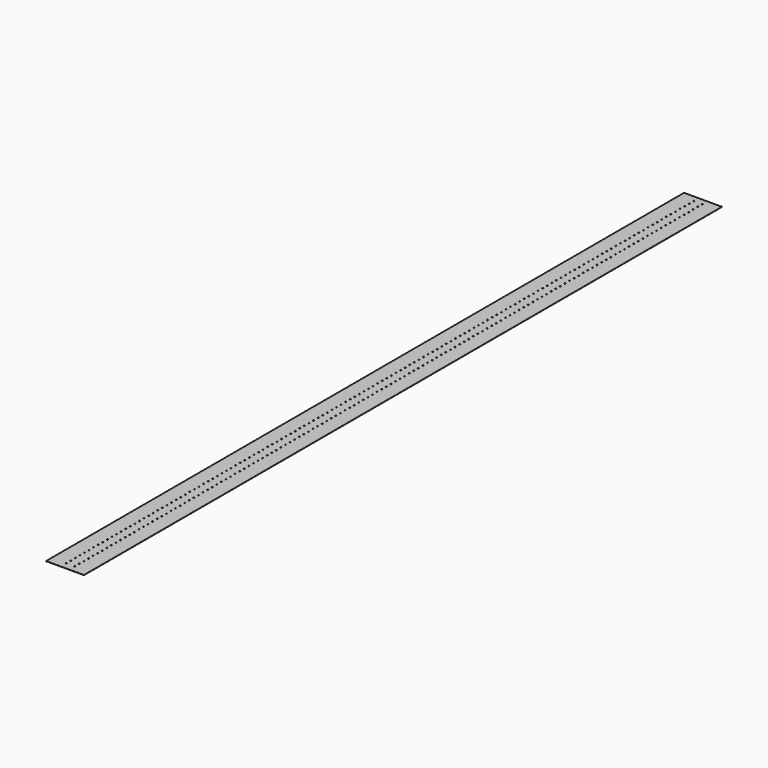
from build123d import *

# Parameters (mm, degrees)
F0_W     = 168
F0_H     = 3536.95
F0_R     = 2.38125
F1_DEPTH = 0.8


with BuildPart() as f1:
    # F0 (on Top) → F1 (new body)
    with BuildSketch(Plane.XY):
        Rectangle(F0_W, F0_H)
        with Locations((-19.0522, -1738.3125)):
            Circle(F0_R, mode=Mode.SUBTRACT)
        with Locations((-19.0522, -1712.9125)):
            Circle(F0_R, mode=Mode.SUBTRACT)
        with Locations((-19.0522, -1687.5125)):
            Circle(F0_R, mode=Mode.SUBTRACT)
        with Locations((-19.0522, -1662.1125)):
            Circle(F0_R, mode=Mode.SUBTRACT)
        with Locations((-19.0522, -1636.7125)):
            Circle(F0_R, mode=Mode.SUBTRACT)
        with Locations((-19.0522, -1611.3125)):
            Circle(F0_R, mode=Mode.SUBTRACT)
        with Locations((-19.0522, -1585.9125)):
            Circle(F0_R, mode=Mode.SUBTRACT)
        with Locations((-19.0522, -1560.5125)):
            Circle(F0_R, mode=Mode.SUBTRACT)
        with Locations((-19.0522, -1535.1125)):
            Circle(F0_R, mode=Mode.SUBTRACT)
        with Locations((-19.0522, -1509.7125)):
            Circle(F0_R, mode=Mode.SUBTRACT)
        with Locations((-19.0522, -1484.3125)):
            Circle(F0_R, mode=Mode.SUBTRACT)
        with Locations((-19.0522, -1458.9125)):
            Circle(F0_R, mode=Mode.SUBTRACT)
        with Locations((-19.0522, -1433.5125)):
            Circle(F0_R, mode=Mode.SUBTRACT)
        with Locations((-19.0522, -1408.1125)):
            Circle(F0_R, mode=Mode.SUBTRACT)
        with Locations((-19.0522, -1382.7125)):
            Circle(F0_R, mode=Mode.SUBTRACT)
        with Locations((-19.0522, -1357.3125)):
            Circle(F0_R, mode=Mode.SUBTRACT)
        with Locations((-19.0522, -1331.9125)):
            Circle(F0_R, mode=Mode.SUBTRACT)
        with Locations((-19.0522, -1306.5125)):
            Circle(F0_R, mode=Mode.SUBTRACT)
        with Locations((-19.0522, -1281.1125)):
            Circle(F0_R, mode=Mode.SUBTRACT)
        with Locations((-19.0522, -1255.7125)):
            Circle(F0_R, mode=Mode.SUBTRACT)
        with Locations((-19.0522, -1230.3125)):
            Circle(F0_R, mode=Mode.SUBTRACT)
        with Locations((-19.0522, -1204.9125)):
            Circle(F0_R, mode=Mode.SUBTRACT)
        with Locations((-19.0522, -1179.5125)):
            Circle(F0_R, mode=Mode.SUBTRACT)
        with Locations((-19.0522, -1154.1125)):
            Circle(F0_R, mode=Mode.SUBTRACT)
        with Locations((-19.0522, -1128.7125)):
            Circle(F0_R, mode=Mode.SUBTRACT)
        with Locations((-19.0522, -1103.3125)):
            Circle(F0_R, mode=Mode.SUBTRACT)
        with Locations((-19.0522, -1077.9125)):
            Circle(F0_R, mode=Mode.SUBTRACT)
        with Locations((-19.0522, -1052.5125)):
            Circle(F0_R, mode=Mode.SUBTRACT)
        with Locations((-19.0522, -1027.1125)):
            Circle(F0_R, mode=Mode.SUBTRACT)
        with Locations((-19.0522, -1001.7125)):
            Circle(F0_R, mode=Mode.SUBTRACT)
        with Locations((-19.0522, -976.3125)):
            Circle(F0_R, mode=Mode.SUBTRACT)
        with Locations((-19.0522, -950.9125)):
            Circle(F0_R, mode=Mode.SUBTRACT)
        with Locations((-19.0522, -925.5125)):
            Circle(F0_R, mode=Mode.SUBTRACT)
        with Locations((-19.0522, -900.1125)):
            Circle(F0_R, mode=Mode.SUBTRACT)
        with Locations((-19.0522, -874.7125)):
            Circle(F0_R, mode=Mode.SUBTRACT)
        with Locations((-19.0522, -849.3125)):
            Circle(F0_R, mode=Mode.SUBTRACT)
        with Locations((-19.0522, -823.9125)):
            Circle(F0_R, mode=Mode.SUBTRACT)
        with Locations((-19.0522, -798.5125)):
            Circle(F0_R, mode=Mode.SUBTRACT)
        with Locations((-19.0522, -773.1125)):
            Circle(F0_R, mode=Mode.SUBTRACT)
        with Locations((-19.0522, -747.7125)):
            Circle(F0_R, mode=Mode.SUBTRACT)
        with Locations((-19.0522, -722.3125)):
            Circle(F0_R, mode=Mode.SUBTRACT)
        with Locations((-19.0522, -696.9125)):
            Circle(F0_R, mode=Mode.SUBTRACT)
        with Locations((-19.0522, -671.5125)):
            Circle(F0_R, mode=Mode.SUBTRACT)
        with Locations((-19.0522, -646.1125)):
            Circle(F0_R, mode=Mode.SUBTRACT)
        with Locations((-19.0522, -620.7125)):
            Circle(F0_R, mode=Mode.SUBTRACT)
        with Locations((-19.0522, -595.3125)):
            Circle(F0_R, mode=Mode.SUBTRACT)
        with Locations((-19.0522, -569.9125)):
            Circle(F0_R, mode=Mode.SUBTRACT)
        with Locations((-19.0522, -544.5125)):
            Circle(F0_R, mode=Mode.SUBTRACT)
        with Locations((-19.0522, -519.1125)):
            Circle(F0_R, mode=Mode.SUBTRACT)
        with Locations((-19.0522, -493.7125)):
            Circle(F0_R, mode=Mode.SUBTRACT)
        with Locations((-19.0522, -468.3125)):
            Circle(F0_R, mode=Mode.SUBTRACT)
        with Locations((-19.0522, -442.9125)):
            Circle(F0_R, mode=Mode.SUBTRACT)
        with Locations((-19.0522, -417.5125)):
            Circle(F0_R, mode=Mode.SUBTRACT)
        with Locations((-19.0522, -392.1125)):
            Circle(F0_R, mode=Mode.SUBTRACT)
        with Locations((-19.0522, -366.7125)):
            Circle(F0_R, mode=Mode.SUBTRACT)
        with Locations((-19.0522, -341.3125)):
            Circle(F0_R, mode=Mode.SUBTRACT)
        with Locations((-19.0522, -315.9125)):
            Circle(F0_R, mode=Mode.SUBTRACT)
        with Locations((-19.0522, -290.5125)):
            Circle(F0_R, mode=Mode.SUBTRACT)
        with Locations((-19.0522, -265.1125)):
            Circle(F0_R, mode=Mode.SUBTRACT)
        with Locations((-19.0522, -239.7125)):
            Circle(F0_R, mode=Mode.SUBTRACT)
        with Locations((-19.0522, -214.3125)):
            Circle(F0_R, mode=Mode.SUBTRACT)
        with Locations((-19.0522, -188.9125)):
            Circle(F0_R, mode=Mode.SUBTRACT)
        with Locations((-19.0522, -163.5125)):
            Circle(F0_R, mode=Mode.SUBTRACT)
        with Locations((-19.0522, -138.1125)):
            Circle(F0_R, mode=Mode.SUBTRACT)
        with Locations((-19.0522, -112.7125)):
            Circle(F0_R, mode=Mode.SUBTRACT)
        with Locations((-19.0522, -87.3125)):
            Circle(F0_R, mode=Mode.SUBTRACT)
        with Locations((-19.0522, -61.9125)):
            Circle(F0_R, mode=Mode.SUBTRACT)
        with Locations((-19.0522, -36.5125)):
            Circle(F0_R, mode=Mode.SUBTRACT)
        with Locations((-19.0522, -11.1125)):
            Circle(F0_R, mode=Mode.SUBTRACT)
        with Locations((19.0478, -1738.3125)):
            Circle(F0_R, mode=Mode.SUBTRACT)
        with Locations((19.0478, -1712.9125)):
            Circle(F0_R, mode=Mode.SUBTRACT)
        with Locations((19.0478, -1687.5125)):
            Circle(F0_R, mode=Mode.SUBTRACT)
        with Locations((19.0478, -1662.1125)):
            Circle(F0_R, mode=Mode.SUBTRACT)
        with Locations((19.0478, -1636.7125)):
            Circle(F0_R, mode=Mode.SUBTRACT)
        with Locations((19.0478, -1611.3125)):
            Circle(F0_R, mode=Mode.SUBTRACT)
        with Locations((19.0478, -1585.9125)):
            Circle(F0_R, mode=Mode.SUBTRACT)
        with Locations((19.0478, -1560.5125)):
            Circle(F0_R, mode=Mode.SUBTRACT)
        with Locations((19.0478, -1535.1125)):
            Circle(F0_R, mode=Mode.SUBTRACT)
        with Locations((19.0478, -1509.7125)):
            Circle(F0_R, mode=Mode.SUBTRACT)
        with Locations((19.0478, -1484.3125)):
            Circle(F0_R, mode=Mode.SUBTRACT)
        with Locations((19.0478, -1458.9125)):
            Circle(F0_R, mode=Mode.SUBTRACT)
        with Locations((19.0478, -1433.5125)):
            Circle(F0_R, mode=Mode.SUBTRACT)
        with Locations((19.0478, -1408.1125)):
            Circle(F0_R, mode=Mode.SUBTRACT)
        with Locations((19.0478, -1382.7125)):
            Circle(F0_R, mode=Mode.SUBTRACT)
        with Locations((19.0478, -1357.3125)):
            Circle(F0_R, mode=Mode.SUBTRACT)
        with Locations((19.0478, -1331.9125)):
            Circle(F0_R, mode=Mode.SUBTRACT)
        with Locations((19.0478, -1306.5125)):
            Circle(F0_R, mode=Mode.SUBTRACT)
        with Locations((19.0478, -1281.1125)):
            Circle(F0_R, mode=Mode.SUBTRACT)
        with Locations((19.0478, -1255.7125)):
            Circle(F0_R, mode=Mode.SUBTRACT)
        with Locations((19.0478, -1230.3125)):
            Circle(F0_R, mode=Mode.SUBTRACT)
        with Locations((19.0478, -1204.9125)):
            Circle(F0_R, mode=Mode.SUBTRACT)
        with Locations((19.0478, -1179.5125)):
            Circle(F0_R, mode=Mode.SUBTRACT)
        with Locations((19.0478, -1154.1125)):
            Circle(F0_R, mode=Mode.SUBTRACT)
        with Locations((19.0478, -1128.7125)):
            Circle(F0_R, mode=Mode.SUBTRACT)
        with Locations((19.0478, -1103.3125)):
            Circle(F0_R, mode=Mode.SUBTRACT)
        with Locations((19.0478, -1077.9125)):
            Circle(F0_R, mode=Mode.SUBTRACT)
        with Locations((19.0478, -1052.5125)):
            Circle(F0_R, mode=Mode.SUBTRACT)
        with Locations((19.0478, -1027.1125)):
            Circle(F0_R, mode=Mode.SUBTRACT)
        with Locations((19.0478, -1001.7125)):
            Circle(F0_R, mode=Mode.SUBTRACT)
        with Locations((19.0478, -976.3125)):
            Circle(F0_R, mode=Mode.SUBTRACT)
        with Locations((19.0478, -950.9125)):
            Circle(F0_R, mode=Mode.SUBTRACT)
        with Locations((19.0478, -925.5125)):
            Circle(F0_R, mode=Mode.SUBTRACT)
        with Locations((19.0478, -900.1125)):
            Circle(F0_R, mode=Mode.SUBTRACT)
        with Locations((19.0478, -874.7125)):
            Circle(F0_R, mode=Mode.SUBTRACT)
        with Locations((19.0478, -849.3125)):
            Circle(F0_R, mode=Mode.SUBTRACT)
        with Locations((19.0478, -823.9125)):
            Circle(F0_R, mode=Mode.SUBTRACT)
        with Locations((19.0478, -798.5125)):
            Circle(F0_R, mode=Mode.SUBTRACT)
        with Locations((19.0478, -773.1125)):
            Circle(F0_R, mode=Mode.SUBTRACT)
        with Locations((19.0478, -747.7125)):
            Circle(F0_R, mode=Mode.SUBTRACT)
        with Locations((19.0478, -722.3125)):
            Circle(F0_R, mode=Mode.SUBTRACT)
        with Locations((19.0478, -696.9125)):
            Circle(F0_R, mode=Mode.SUBTRACT)
        with Locations((19.0478, -671.5125)):
            Circle(F0_R, mode=Mode.SUBTRACT)
        with Locations((19.0478, -646.1125)):
            Circle(F0_R, mode=Mode.SUBTRACT)
        with Locations((19.0478, -620.7125)):
            Circle(F0_R, mode=Mode.SUBTRACT)
        with Locations((19.0478, -595.3125)):
            Circle(F0_R, mode=Mode.SUBTRACT)
        with Locations((19.0478, -569.9125)):
            Circle(F0_R, mode=Mode.SUBTRACT)
        with Locations((19.0478, -544.5125)):
            Circle(F0_R, mode=Mode.SUBTRACT)
        with Locations((19.0478, -519.1125)):
            Circle(F0_R, mode=Mode.SUBTRACT)
        with Locations((19.0478, -493.7125)):
            Circle(F0_R, mode=Mode.SUBTRACT)
        with Locations((19.0478, -468.3125)):
            Circle(F0_R, mode=Mode.SUBTRACT)
        with Locations((19.0478, -442.9125)):
            Circle(F0_R, mode=Mode.SUBTRACT)
        with Locations((19.0478, -417.5125)):
            Circle(F0_R, mode=Mode.SUBTRACT)
        with Locations((19.0478, -392.1125)):
            Circle(F0_R, mode=Mode.SUBTRACT)
        with Locations((19.0478, -366.7125)):
            Circle(F0_R, mode=Mode.SUBTRACT)
        with Locations((19.0478, -341.3125)):
            Circle(F0_R, mode=Mode.SUBTRACT)
        with Locations((19.0478, -315.9125)):
            Circle(F0_R, mode=Mode.SUBTRACT)
        with Locations((19.0478, -290.5125)):
            Circle(F0_R, mode=Mode.SUBTRACT)
        with Locations((19.0478, -265.1125)):
            Circle(F0_R, mode=Mode.SUBTRACT)
        with Locations((19.0478, -239.7125)):
            Circle(F0_R, mode=Mode.SUBTRACT)
        with Locations((19.0478, -214.3125)):
            Circle(F0_R, mode=Mode.SUBTRACT)
        with Locations((19.0478, -188.9125)):
            Circle(F0_R, mode=Mode.SUBTRACT)
        with Locations((19.0478, -163.5125)):
            Circle(F0_R, mode=Mode.SUBTRACT)
        with Locations((19.0478, -138.1125)):
            Circle(F0_R, mode=Mode.SUBTRACT)
        with Locations((19.0478, -112.7125)):
            Circle(F0_R, mode=Mode.SUBTRACT)
        with Locations((19.0478, -87.3125)):
            Circle(F0_R, mode=Mode.SUBTRACT)
        with Locations((19.0478, -61.9125)):
            Circle(F0_R, mode=Mode.SUBTRACT)
        with Locations((19.0478, -36.5125)):
            Circle(F0_R, mode=Mode.SUBTRACT)
        with Locations((19.0478, -11.1125)):
            Circle(F0_R, mode=Mode.SUBTRACT)
        with Locations((-19.0522, 14.2875)):
            Circle(F0_R, mode=Mode.SUBTRACT)
        with Locations((-19.0522, 39.6875)):
            Circle(F0_R, mode=Mode.SUBTRACT)
        with Locations((-19.0522, 65.0875)):
            Circle(F0_R, mode=Mode.SUBTRACT)
        with Locations((-19.0522, 90.4875)):
            Circle(F0_R, mode=Mode.SUBTRACT)
        with Locations((-19.0522, 115.8875)):
            Circle(F0_R, mode=Mode.SUBTRACT)
        with Locations((-19.0522, 141.2875)):
            Circle(F0_R, mode=Mode.SUBTRACT)
        with Locations((-19.0522, 166.6875)):
            Circle(F0_R, mode=Mode.SUBTRACT)
        with Locations((-19.0522, 192.0875)):
            Circle(F0_R, mode=Mode.SUBTRACT)
        with Locations((-19.0522, 217.4875)):
            Circle(F0_R, mode=Mode.SUBTRACT)
        with Locations((-19.0522, 242.8875)):
            Circle(F0_R, mode=Mode.SUBTRACT)
        with Locations((-19.0522, 268.2875)):
            Circle(F0_R, mode=Mode.SUBTRACT)
        with Locations((-19.0522, 293.6875)):
            Circle(F0_R, mode=Mode.SUBTRACT)
        with Locations((-19.0522, 319.0875)):
            Circle(F0_R, mode=Mode.SUBTRACT)
        with Locations((-19.0522, 344.4875)):
            Circle(F0_R, mode=Mode.SUBTRACT)
        with Locations((-19.0522, 369.8875)):
            Circle(F0_R, mode=Mode.SUBTRACT)
        with Locations((-19.0522, 395.2875)):
            Circle(F0_R, mode=Mode.SUBTRACT)
        with Locations((-19.0522, 420.6875)):
            Circle(F0_R, mode=Mode.SUBTRACT)
        with Locations((-19.0522, 446.0875)):
            Circle(F0_R, mode=Mode.SUBTRACT)
        with Locations((-19.0522, 471.4875)):
            Circle(F0_R, mode=Mode.SUBTRACT)
        with Locations((-19.0522, 496.8875)):
            Circle(F0_R, mode=Mode.SUBTRACT)
        with Locations((-19.0522, 522.2875)):
            Circle(F0_R, mode=Mode.SUBTRACT)
        with Locations((-19.0522, 547.6875)):
            Circle(F0_R, mode=Mode.SUBTRACT)
        with Locations((-19.0522, 573.0875)):
            Circle(F0_R, mode=Mode.SUBTRACT)
        with Locations((-19.0522, 598.4875)):
            Circle(F0_R, mode=Mode.SUBTRACT)
        with Locations((-19.0522, 623.8875)):
            Circle(F0_R, mode=Mode.SUBTRACT)
        with Locations((-19.0522, 649.2875)):
            Circle(F0_R, mode=Mode.SUBTRACT)
        with Locations((-19.0522, 674.6875)):
            Circle(F0_R, mode=Mode.SUBTRACT)
        with Locations((-19.0522, 700.0875)):
            Circle(F0_R, mode=Mode.SUBTRACT)
        with Locations((-19.0522, 725.4875)):
            Circle(F0_R, mode=Mode.SUBTRACT)
        with Locations((-19.0522, 750.8875)):
            Circle(F0_R, mode=Mode.SUBTRACT)
        with Locations((-19.0522, 776.2875)):
            Circle(F0_R, mode=Mode.SUBTRACT)
        with Locations((-19.0522, 801.6875)):
            Circle(F0_R, mode=Mode.SUBTRACT)
        with Locations((-19.0522, 827.0875)):
            Circle(F0_R, mode=Mode.SUBTRACT)
        with Locations((-19.0522, 852.4875)):
            Circle(F0_R, mode=Mode.SUBTRACT)
        with Locations((-19.0522, 877.8875)):
            Circle(F0_R, mode=Mode.SUBTRACT)
        with Locations((-19.0522, 903.2875)):
            Circle(F0_R, mode=Mode.SUBTRACT)
        with Locations((-19.0522, 928.6875)):
            Circle(F0_R, mode=Mode.SUBTRACT)
        with Locations((-19.0522, 954.0875)):
            Circle(F0_R, mode=Mode.SUBTRACT)
        with Locations((-19.0522, 979.4875)):
            Circle(F0_R, mode=Mode.SUBTRACT)
        with Locations((-19.0522, 1004.8875)):
            Circle(F0_R, mode=Mode.SUBTRACT)
        with Locations((-19.0522, 1030.2875)):
            Circle(F0_R, mode=Mode.SUBTRACT)
        with Locations((-19.0522, 1055.6875)):
            Circle(F0_R, mode=Mode.SUBTRACT)
        with Locations((-19.0522, 1081.0875)):
            Circle(F0_R, mode=Mode.SUBTRACT)
        with Locations((-19.0522, 1106.4875)):
            Circle(F0_R, mode=Mode.SUBTRACT)
        with Locations((-19.0522, 1131.8875)):
            Circle(F0_R, mode=Mode.SUBTRACT)
        with Locations((-19.0522, 1157.2875)):
            Circle(F0_R, mode=Mode.SUBTRACT)
        with Locations((-19.0522, 1182.6875)):
            Circle(F0_R, mode=Mode.SUBTRACT)
        with Locations((-19.0522, 1208.0875)):
            Circle(F0_R, mode=Mode.SUBTRACT)
        with Locations((-19.0522, 1233.4875)):
            Circle(F0_R, mode=Mode.SUBTRACT)
        with Locations((-19.0522, 1258.8875)):
            Circle(F0_R, mode=Mode.SUBTRACT)
        with Locations((-19.0522, 1284.2875)):
            Circle(F0_R, mode=Mode.SUBTRACT)
        with Locations((-19.0522, 1309.6875)):
            Circle(F0_R, mode=Mode.SUBTRACT)
        with Locations((-19.0522, 1335.0875)):
            Circle(F0_R, mode=Mode.SUBTRACT)
        with Locations((-19.0522, 1360.4875)):
            Circle(F0_R, mode=Mode.SUBTRACT)
        with Locations((-19.0522, 1385.8875)):
            Circle(F0_R, mode=Mode.SUBTRACT)
        with Locations((-19.0522, 1411.2875)):
            Circle(F0_R, mode=Mode.SUBTRACT)
        with Locations((-19.0522, 1436.6875)):
            Circle(F0_R, mode=Mode.SUBTRACT)
        with Locations((-19.0522, 1462.0875)):
            Circle(F0_R, mode=Mode.SUBTRACT)
        with Locations((-19.0522, 1487.4875)):
            Circle(F0_R, mode=Mode.SUBTRACT)
        with Locations((-19.0522, 1512.8875)):
            Circle(F0_R, mode=Mode.SUBTRACT)
        with Locations((-19.0522, 1538.2875)):
            Circle(F0_R, mode=Mode.SUBTRACT)
        with Locations((-19.0522, 1563.6875)):
            Circle(F0_R, mode=Mode.SUBTRACT)
        with Locations((-19.0522, 1589.0875)):
            Circle(F0_R, mode=Mode.SUBTRACT)
        with Locations((-19.0522, 1614.4875)):
            Circle(F0_R, mode=Mode.SUBTRACT)
        with Locations((-19.0522, 1639.8875)):
            Circle(F0_R, mode=Mode.SUBTRACT)
        with Locations((-19.0522, 1665.2875)):
            Circle(F0_R, mode=Mode.SUBTRACT)
        with Locations((-19.0522, 1690.6875)):
            Circle(F0_R, mode=Mode.SUBTRACT)
        with Locations((-19.0522, 1716.0875)):
            Circle(F0_R, mode=Mode.SUBTRACT)
        with Locations((-19.0522, 1741.4875)):
            Circle(F0_R, mode=Mode.SUBTRACT)
        with Locations((19.0478, 14.2875)):
            Circle(F0_R, mode=Mode.SUBTRACT)
        with Locations((19.0478, 39.6875)):
            Circle(F0_R, mode=Mode.SUBTRACT)
        with Locations((19.0478, 65.0875)):
            Circle(F0_R, mode=Mode.SUBTRACT)
        with Locations((19.0478, 90.4875)):
            Circle(F0_R, mode=Mode.SUBTRACT)
        with Locations((19.0478, 115.8875)):
            Circle(F0_R, mode=Mode.SUBTRACT)
        with Locations((19.0478, 141.2875)):
            Circle(F0_R, mode=Mode.SUBTRACT)
        with Locations((19.0478, 166.6875)):
            Circle(F0_R, mode=Mode.SUBTRACT)
        with Locations((19.0478, 192.0875)):
            Circle(F0_R, mode=Mode.SUBTRACT)
        with Locations((19.0478, 217.4875)):
            Circle(F0_R, mode=Mode.SUBTRACT)
        with Locations((19.0478, 242.8875)):
            Circle(F0_R, mode=Mode.SUBTRACT)
        with Locations((19.0478, 268.2875)):
            Circle(F0_R, mode=Mode.SUBTRACT)
        with Locations((19.0478, 293.6875)):
            Circle(F0_R, mode=Mode.SUBTRACT)
        with Locations((19.0478, 319.0875)):
            Circle(F0_R, mode=Mode.SUBTRACT)
        with Locations((19.0478, 344.4875)):
            Circle(F0_R, mode=Mode.SUBTRACT)
        with Locations((19.0478, 369.8875)):
            Circle(F0_R, mode=Mode.SUBTRACT)
        with Locations((19.0478, 395.2875)):
            Circle(F0_R, mode=Mode.SUBTRACT)
        with Locations((19.0478, 420.6875)):
            Circle(F0_R, mode=Mode.SUBTRACT)
        with Locations((19.0478, 446.0875)):
            Circle(F0_R, mode=Mode.SUBTRACT)
        with Locations((19.0478, 471.4875)):
            Circle(F0_R, mode=Mode.SUBTRACT)
        with Locations((19.0478, 496.8875)):
            Circle(F0_R, mode=Mode.SUBTRACT)
        with Locations((19.0478, 522.2875)):
            Circle(F0_R, mode=Mode.SUBTRACT)
        with Locations((19.0478, 547.6875)):
            Circle(F0_R, mode=Mode.SUBTRACT)
        with Locations((19.0478, 573.0875)):
            Circle(F0_R, mode=Mode.SUBTRACT)
        with Locations((19.0478, 598.4875)):
            Circle(F0_R, mode=Mode.SUBTRACT)
        with Locations((19.0478, 623.8875)):
            Circle(F0_R, mode=Mode.SUBTRACT)
        with Locations((19.0478, 649.2875)):
            Circle(F0_R, mode=Mode.SUBTRACT)
        with Locations((19.0478, 674.6875)):
            Circle(F0_R, mode=Mode.SUBTRACT)
        with Locations((19.0478, 700.0875)):
            Circle(F0_R, mode=Mode.SUBTRACT)
        with Locations((19.0478, 725.4875)):
            Circle(F0_R, mode=Mode.SUBTRACT)
        with Locations((19.0478, 750.8875)):
            Circle(F0_R, mode=Mode.SUBTRACT)
        with Locations((19.0478, 776.2875)):
            Circle(F0_R, mode=Mode.SUBTRACT)
        with Locations((19.0478, 801.6875)):
            Circle(F0_R, mode=Mode.SUBTRACT)
        with Locations((19.0478, 827.0875)):
            Circle(F0_R, mode=Mode.SUBTRACT)
        with Locations((19.0478, 852.4875)):
            Circle(F0_R, mode=Mode.SUBTRACT)
        with Locations((19.0478, 877.8875)):
            Circle(F0_R, mode=Mode.SUBTRACT)
        with Locations((19.0478, 903.2875)):
            Circle(F0_R, mode=Mode.SUBTRACT)
        with Locations((19.0478, 928.6875)):
            Circle(F0_R, mode=Mode.SUBTRACT)
        with Locations((19.0478, 954.0875)):
            Circle(F0_R, mode=Mode.SUBTRACT)
        with Locations((19.0478, 979.4875)):
            Circle(F0_R, mode=Mode.SUBTRACT)
        with Locations((19.0478, 1004.8875)):
            Circle(F0_R, mode=Mode.SUBTRACT)
        with Locations((19.0478, 1030.2875)):
            Circle(F0_R, mode=Mode.SUBTRACT)
        with Locations((19.0478, 1055.6875)):
            Circle(F0_R, mode=Mode.SUBTRACT)
        with Locations((19.0478, 1081.0875)):
            Circle(F0_R, mode=Mode.SUBTRACT)
        with Locations((19.0478, 1106.4875)):
            Circle(F0_R, mode=Mode.SUBTRACT)
        with Locations((19.0478, 1131.8875)):
            Circle(F0_R, mode=Mode.SUBTRACT)
        with Locations((19.0478, 1157.2875)):
            Circle(F0_R, mode=Mode.SUBTRACT)
        with Locations((19.0478, 1182.6875)):
            Circle(F0_R, mode=Mode.SUBTRACT)
        with Locations((19.0478, 1208.0875)):
            Circle(F0_R, mode=Mode.SUBTRACT)
        with Locations((19.0478, 1233.4875)):
            Circle(F0_R, mode=Mode.SUBTRACT)
        with Locations((19.0478, 1258.8875)):
            Circle(F0_R, mode=Mode.SUBTRACT)
        with Locations((19.0478, 1284.2875)):
            Circle(F0_R, mode=Mode.SUBTRACT)
        with Locations((19.0478, 1309.6875)):
            Circle(F0_R, mode=Mode.SUBTRACT)
        with Locations((19.0478, 1335.0875)):
            Circle(F0_R, mode=Mode.SUBTRACT)
        with Locations((19.0478, 1360.4875)):
            Circle(F0_R, mode=Mode.SUBTRACT)
        with Locations((19.0478, 1385.8875)):
            Circle(F0_R, mode=Mode.SUBTRACT)
        with Locations((19.0478, 1411.2875)):
            Circle(F0_R, mode=Mode.SUBTRACT)
        with Locations((19.0478, 1436.6875)):
            Circle(F0_R, mode=Mode.SUBTRACT)
        with Locations((19.0478, 1462.0875)):
            Circle(F0_R, mode=Mode.SUBTRACT)
        with Locations((19.0478, 1487.4875)):
            Circle(F0_R, mode=Mode.SUBTRACT)
        with Locations((19.0478, 1512.8875)):
            Circle(F0_R, mode=Mode.SUBTRACT)
        with Locations((19.0478, 1538.2875)):
            Circle(F0_R, mode=Mode.SUBTRACT)
        with Locations((19.0478, 1563.6875)):
            Circle(F0_R, mode=Mode.SUBTRACT)
        with Locations((19.0478, 1589.0875)):
            Circle(F0_R, mode=Mode.SUBTRACT)
        with Locations((19.0478, 1614.4875)):
            Circle(F0_R, mode=Mode.SUBTRACT)
        with Locations((19.0478, 1639.8875)):
            Circle(F0_R, mode=Mode.SUBTRACT)
        with Locations((19.0478, 1665.2875)):
            Circle(F0_R, mode=Mode.SUBTRACT)
        with Locations((19.0478, 1690.6875)):
            Circle(F0_R, mode=Mode.SUBTRACT)
        with Locations((19.0478, 1716.0875)):
            Circle(F0_R, mode=Mode.SUBTRACT)
        with Locations((19.0478, 1741.4875)):
            Circle(F0_R, mode=Mode.SUBTRACT)
        Rectangle(F0_W, F0_H)
        with Locations((-19.0522, -1738.3125)):
            Circle(F0_R, mode=Mode.SUBTRACT)
        with Locations((-19.0522, -1712.9125)):
            Circle(F0_R, mode=Mode.SUBTRACT)
        with Locations((-19.0522, -1687.5125)):
            Circle(F0_R, mode=Mode.SUBTRACT)
        with Locations((-19.0522, -1662.1125)):
            Circle(F0_R, mode=Mode.SUBTRACT)
        with Locations((-19.0522, -1636.7125)):
            Circle(F0_R, mode=Mode.SUBTRACT)
        with Locations((-19.0522, -1611.3125)):
            Circle(F0_R, mode=Mode.SUBTRACT)
        with Locations((-19.0522, -1585.9125)):
            Circle(F0_R, mode=Mode.SUBTRACT)
        with Locations((-19.0522, -1560.5125)):
            Circle(F0_R, mode=Mode.SUBTRACT)
        with Locations((-19.0522, -1535.1125)):
            Circle(F0_R, mode=Mode.SUBTRACT)
        with Locations((-19.0522, -1509.7125)):
            Circle(F0_R, mode=Mode.SUBTRACT)
        with Locations((-19.0522, -1484.3125)):
            Circle(F0_R, mode=Mode.SUBTRACT)
        with Locations((-19.0522, -1458.9125)):
            Circle(F0_R, mode=Mode.SUBTRACT)
        with Locations((-19.0522, -1433.5125)):
            Circle(F0_R, mode=Mode.SUBTRACT)
        with Locations((-19.0522, -1408.1125)):
            Circle(F0_R, mode=Mode.SUBTRACT)
        with Locations((-19.0522, -1382.7125)):
            Circle(F0_R, mode=Mode.SUBTRACT)
        with Locations((-19.0522, -1357.3125)):
            Circle(F0_R, mode=Mode.SUBTRACT)
        with Locations((-19.0522, -1331.9125)):
            Circle(F0_R, mode=Mode.SUBTRACT)
        with Locations((-19.0522, -1306.5125)):
            Circle(F0_R, mode=Mode.SUBTRACT)
        with Locations((-19.0522, -1281.1125)):
            Circle(F0_R, mode=Mode.SUBTRACT)
        with Locations((-19.0522, -1255.7125)):
            Circle(F0_R, mode=Mode.SUBTRACT)
        with Locations((-19.0522, -1230.3125)):
            Circle(F0_R, mode=Mode.SUBTRACT)
        with Locations((-19.0522, -1204.9125)):
            Circle(F0_R, mode=Mode.SUBTRACT)
        with Locations((-19.0522, -1179.5125)):
            Circle(F0_R, mode=Mode.SUBTRACT)
        with Locations((-19.0522, -1154.1125)):
            Circle(F0_R, mode=Mode.SUBTRACT)
        with Locations((-19.0522, -1128.7125)):
            Circle(F0_R, mode=Mode.SUBTRACT)
        with Locations((-19.0522, -1103.3125)):
            Circle(F0_R, mode=Mode.SUBTRACT)
        with Locations((-19.0522, -1077.9125)):
            Circle(F0_R, mode=Mode.SUBTRACT)
        with Locations((-19.0522, -1052.5125)):
            Circle(F0_R, mode=Mode.SUBTRACT)
        with Locations((-19.0522, -1027.1125)):
            Circle(F0_R, mode=Mode.SUBTRACT)
        with Locations((-19.0522, -1001.7125)):
            Circle(F0_R, mode=Mode.SUBTRACT)
        with Locations((-19.0522, -976.3125)):
            Circle(F0_R, mode=Mode.SUBTRACT)
        with Locations((-19.0522, -950.9125)):
            Circle(F0_R, mode=Mode.SUBTRACT)
        with Locations((-19.0522, -925.5125)):
            Circle(F0_R, mode=Mode.SUBTRACT)
        with Locations((-19.0522, -900.1125)):
            Circle(F0_R, mode=Mode.SUBTRACT)
        with Locations((-19.0522, -874.7125)):
            Circle(F0_R, mode=Mode.SUBTRACT)
        with Locations((-19.0522, -849.3125)):
            Circle(F0_R, mode=Mode.SUBTRACT)
        with Locations((-19.0522, -823.9125)):
            Circle(F0_R, mode=Mode.SUBTRACT)
        with Locations((-19.0522, -798.5125)):
            Circle(F0_R, mode=Mode.SUBTRACT)
        with Locations((-19.0522, -773.1125)):
            Circle(F0_R, mode=Mode.SUBTRACT)
        with Locations((-19.0522, -747.7125)):
            Circle(F0_R, mode=Mode.SUBTRACT)
        with Locations((-19.0522, -722.3125)):
            Circle(F0_R, mode=Mode.SUBTRACT)
        with Locations((-19.0522, -696.9125)):
            Circle(F0_R, mode=Mode.SUBTRACT)
        with Locations((-19.0522, -671.5125)):
            Circle(F0_R, mode=Mode.SUBTRACT)
        with Locations((-19.0522, -646.1125)):
            Circle(F0_R, mode=Mode.SUBTRACT)
        with Locations((-19.0522, -620.7125)):
            Circle(F0_R, mode=Mode.SUBTRACT)
        with Locations((-19.0522, -595.3125)):
            Circle(F0_R, mode=Mode.SUBTRACT)
        with Locations((-19.0522, -569.9125)):
            Circle(F0_R, mode=Mode.SUBTRACT)
        with Locations((-19.0522, -544.5125)):
            Circle(F0_R, mode=Mode.SUBTRACT)
        with Locations((-19.0522, -519.1125)):
            Circle(F0_R, mode=Mode.SUBTRACT)
        with Locations((-19.0522, -493.7125)):
            Circle(F0_R, mode=Mode.SUBTRACT)
        with Locations((-19.0522, -468.3125)):
            Circle(F0_R, mode=Mode.SUBTRACT)
        with Locations((-19.0522, -442.9125)):
            Circle(F0_R, mode=Mode.SUBTRACT)
        with Locations((-19.0522, -417.5125)):
            Circle(F0_R, mode=Mode.SUBTRACT)
        with Locations((-19.0522, -392.1125)):
            Circle(F0_R, mode=Mode.SUBTRACT)
        with Locations((-19.0522, -366.7125)):
            Circle(F0_R, mode=Mode.SUBTRACT)
        with Locations((-19.0522, -341.3125)):
            Circle(F0_R, mode=Mode.SUBTRACT)
        with Locations((-19.0522, -315.9125)):
            Circle(F0_R, mode=Mode.SUBTRACT)
        with Locations((-19.0522, -290.5125)):
            Circle(F0_R, mode=Mode.SUBTRACT)
        with Locations((-19.0522, -265.1125)):
            Circle(F0_R, mode=Mode.SUBTRACT)
        with Locations((-19.0522, -239.7125)):
            Circle(F0_R, mode=Mode.SUBTRACT)
        with Locations((-19.0522, -214.3125)):
            Circle(F0_R, mode=Mode.SUBTRACT)
        with Locations((-19.0522, -188.9125)):
            Circle(F0_R, mode=Mode.SUBTRACT)
        with Locations((-19.0522, -163.5125)):
            Circle(F0_R, mode=Mode.SUBTRACT)
        with Locations((-19.0522, -138.1125)):
            Circle(F0_R, mode=Mode.SUBTRACT)
        with Locations((-19.0522, -112.7125)):
            Circle(F0_R, mode=Mode.SUBTRACT)
        with Locations((-19.0522, -87.3125)):
            Circle(F0_R, mode=Mode.SUBTRACT)
        with Locations((-19.0522, -61.9125)):
            Circle(F0_R, mode=Mode.SUBTRACT)
        with Locations((-19.0522, -36.5125)):
            Circle(F0_R, mode=Mode.SUBTRACT)
        with Locations((-19.0522, -11.1125)):
            Circle(F0_R, mode=Mode.SUBTRACT)
        with Locations((19.0478, -1738.3125)):
            Circle(F0_R, mode=Mode.SUBTRACT)
        with Locations((19.0478, -1712.9125)):
            Circle(F0_R, mode=Mode.SUBTRACT)
        with Locations((19.0478, -1687.5125)):
            Circle(F0_R, mode=Mode.SUBTRACT)
        with Locations((19.0478, -1662.1125)):
            Circle(F0_R, mode=Mode.SUBTRACT)
        with Locations((19.0478, -1636.7125)):
            Circle(F0_R, mode=Mode.SUBTRACT)
        with Locations((19.0478, -1611.3125)):
            Circle(F0_R, mode=Mode.SUBTRACT)
        with Locations((19.0478, -1585.9125)):
            Circle(F0_R, mode=Mode.SUBTRACT)
        with Locations((19.0478, -1560.5125)):
            Circle(F0_R, mode=Mode.SUBTRACT)
        with Locations((19.0478, -1535.1125)):
            Circle(F0_R, mode=Mode.SUBTRACT)
        with Locations((19.0478, -1509.7125)):
            Circle(F0_R, mode=Mode.SUBTRACT)
        with Locations((19.0478, -1484.3125)):
            Circle(F0_R, mode=Mode.SUBTRACT)
        with Locations((19.0478, -1458.9125)):
            Circle(F0_R, mode=Mode.SUBTRACT)
        with Locations((19.0478, -1433.5125)):
            Circle(F0_R, mode=Mode.SUBTRACT)
        with Locations((19.0478, -1408.1125)):
            Circle(F0_R, mode=Mode.SUBTRACT)
        with Locations((19.0478, -1382.7125)):
            Circle(F0_R, mode=Mode.SUBTRACT)
        with Locations((19.0478, -1357.3125)):
            Circle(F0_R, mode=Mode.SUBTRACT)
        with Locations((19.0478, -1331.9125)):
            Circle(F0_R, mode=Mode.SUBTRACT)
        with Locations((19.0478, -1306.5125)):
            Circle(F0_R, mode=Mode.SUBTRACT)
        with Locations((19.0478, -1281.1125)):
            Circle(F0_R, mode=Mode.SUBTRACT)
        with Locations((19.0478, -1255.7125)):
            Circle(F0_R, mode=Mode.SUBTRACT)
        with Locations((19.0478, -1230.3125)):
            Circle(F0_R, mode=Mode.SUBTRACT)
        with Locations((19.0478, -1204.9125)):
            Circle(F0_R, mode=Mode.SUBTRACT)
        with Locations((19.0478, -1179.5125)):
            Circle(F0_R, mode=Mode.SUBTRACT)
        with Locations((19.0478, -1154.1125)):
            Circle(F0_R, mode=Mode.SUBTRACT)
        with Locations((19.0478, -1128.7125)):
            Circle(F0_R, mode=Mode.SUBTRACT)
        with Locations((19.0478, -1103.3125)):
            Circle(F0_R, mode=Mode.SUBTRACT)
        with Locations((19.0478, -1077.9125)):
            Circle(F0_R, mode=Mode.SUBTRACT)
        with Locations((19.0478, -1052.5125)):
            Circle(F0_R, mode=Mode.SUBTRACT)
        with Locations((19.0478, -1027.1125)):
            Circle(F0_R, mode=Mode.SUBTRACT)
        with Locations((19.0478, -1001.7125)):
            Circle(F0_R, mode=Mode.SUBTRACT)
        with Locations((19.0478, -976.3125)):
            Circle(F0_R, mode=Mode.SUBTRACT)
        with Locations((19.0478, -950.9125)):
            Circle(F0_R, mode=Mode.SUBTRACT)
        with Locations((19.0478, -925.5125)):
            Circle(F0_R, mode=Mode.SUBTRACT)
        with Locations((19.0478, -900.1125)):
            Circle(F0_R, mode=Mode.SUBTRACT)
        with Locations((19.0478, -874.7125)):
            Circle(F0_R, mode=Mode.SUBTRACT)
        with Locations((19.0478, -849.3125)):
            Circle(F0_R, mode=Mode.SUBTRACT)
        with Locations((19.0478, -823.9125)):
            Circle(F0_R, mode=Mode.SUBTRACT)
        with Locations((19.0478, -798.5125)):
            Circle(F0_R, mode=Mode.SUBTRACT)
        with Locations((19.0478, -773.1125)):
            Circle(F0_R, mode=Mode.SUBTRACT)
        with Locations((19.0478, -747.7125)):
            Circle(F0_R, mode=Mode.SUBTRACT)
        with Locations((19.0478, -722.3125)):
            Circle(F0_R, mode=Mode.SUBTRACT)
        with Locations((19.0478, -696.9125)):
            Circle(F0_R, mode=Mode.SUBTRACT)
        with Locations((19.0478, -671.5125)):
            Circle(F0_R, mode=Mode.SUBTRACT)
        with Locations((19.0478, -646.1125)):
            Circle(F0_R, mode=Mode.SUBTRACT)
        with Locations((19.0478, -620.7125)):
            Circle(F0_R, mode=Mode.SUBTRACT)
        with Locations((19.0478, -595.3125)):
            Circle(F0_R, mode=Mode.SUBTRACT)
        with Locations((19.0478, -569.9125)):
            Circle(F0_R, mode=Mode.SUBTRACT)
        with Locations((19.0478, -544.5125)):
            Circle(F0_R, mode=Mode.SUBTRACT)
        with Locations((19.0478, -519.1125)):
            Circle(F0_R, mode=Mode.SUBTRACT)
        with Locations((19.0478, -493.7125)):
            Circle(F0_R, mode=Mode.SUBTRACT)
        with Locations((19.0478, -468.3125)):
            Circle(F0_R, mode=Mode.SUBTRACT)
        with Locations((19.0478, -442.9125)):
            Circle(F0_R, mode=Mode.SUBTRACT)
        with Locations((19.0478, -417.5125)):
            Circle(F0_R, mode=Mode.SUBTRACT)
        with Locations((19.0478, -392.1125)):
            Circle(F0_R, mode=Mode.SUBTRACT)
        with Locations((19.0478, -366.7125)):
            Circle(F0_R, mode=Mode.SUBTRACT)
        with Locations((19.0478, -341.3125)):
            Circle(F0_R, mode=Mode.SUBTRACT)
        with Locations((19.0478, -315.9125)):
            Circle(F0_R, mode=Mode.SUBTRACT)
        with Locations((19.0478, -290.5125)):
            Circle(F0_R, mode=Mode.SUBTRACT)
        with Locations((19.0478, -265.1125)):
            Circle(F0_R, mode=Mode.SUBTRACT)
        with Locations((19.0478, -239.7125)):
            Circle(F0_R, mode=Mode.SUBTRACT)
        with Locations((19.0478, -214.3125)):
            Circle(F0_R, mode=Mode.SUBTRACT)
        with Locations((19.0478, -188.9125)):
            Circle(F0_R, mode=Mode.SUBTRACT)
        with Locations((19.0478, -163.5125)):
            Circle(F0_R, mode=Mode.SUBTRACT)
        with Locations((19.0478, -138.1125)):
            Circle(F0_R, mode=Mode.SUBTRACT)
        with Locations((19.0478, -112.7125)):
            Circle(F0_R, mode=Mode.SUBTRACT)
        with Locations((19.0478, -87.3125)):
            Circle(F0_R, mode=Mode.SUBTRACT)
        with Locations((19.0478, -61.9125)):
            Circle(F0_R, mode=Mode.SUBTRACT)
        with Locations((19.0478, -36.5125)):
            Circle(F0_R, mode=Mode.SUBTRACT)
        with Locations((19.0478, -11.1125)):
            Circle(F0_R, mode=Mode.SUBTRACT)
        with Locations((-19.0522, 14.2875)):
            Circle(F0_R, mode=Mode.SUBTRACT)
        with Locations((-19.0522, 39.6875)):
            Circle(F0_R, mode=Mode.SUBTRACT)
        with Locations((-19.0522, 65.0875)):
            Circle(F0_R, mode=Mode.SUBTRACT)
        with Locations((-19.0522, 90.4875)):
            Circle(F0_R, mode=Mode.SUBTRACT)
        with Locations((-19.0522, 115.8875)):
            Circle(F0_R, mode=Mode.SUBTRACT)
        with Locations((-19.0522, 141.2875)):
            Circle(F0_R, mode=Mode.SUBTRACT)
        with Locations((-19.0522, 166.6875)):
            Circle(F0_R, mode=Mode.SUBTRACT)
        with Locations((-19.0522, 192.0875)):
            Circle(F0_R, mode=Mode.SUBTRACT)
        with Locations((-19.0522, 217.4875)):
            Circle(F0_R, mode=Mode.SUBTRACT)
        with Locations((-19.0522, 242.8875)):
            Circle(F0_R, mode=Mode.SUBTRACT)
        with Locations((-19.0522, 268.2875)):
            Circle(F0_R, mode=Mode.SUBTRACT)
        with Locations((-19.0522, 293.6875)):
            Circle(F0_R, mode=Mode.SUBTRACT)
        with Locations((-19.0522, 319.0875)):
            Circle(F0_R, mode=Mode.SUBTRACT)
        with Locations((-19.0522, 344.4875)):
            Circle(F0_R, mode=Mode.SUBTRACT)
        with Locations((-19.0522, 369.8875)):
            Circle(F0_R, mode=Mode.SUBTRACT)
        with Locations((-19.0522, 395.2875)):
            Circle(F0_R, mode=Mode.SUBTRACT)
        with Locations((-19.0522, 420.6875)):
            Circle(F0_R, mode=Mode.SUBTRACT)
        with Locations((-19.0522, 446.0875)):
            Circle(F0_R, mode=Mode.SUBTRACT)
        with Locations((-19.0522, 471.4875)):
            Circle(F0_R, mode=Mode.SUBTRACT)
        with Locations((-19.0522, 496.8875)):
            Circle(F0_R, mode=Mode.SUBTRACT)
        with Locations((-19.0522, 522.2875)):
            Circle(F0_R, mode=Mode.SUBTRACT)
        with Locations((-19.0522, 547.6875)):
            Circle(F0_R, mode=Mode.SUBTRACT)
        with Locations((-19.0522, 573.0875)):
            Circle(F0_R, mode=Mode.SUBTRACT)
        with Locations((-19.0522, 598.4875)):
            Circle(F0_R, mode=Mode.SUBTRACT)
        with Locations((-19.0522, 623.8875)):
            Circle(F0_R, mode=Mode.SUBTRACT)
        with Locations((-19.0522, 649.2875)):
            Circle(F0_R, mode=Mode.SUBTRACT)
        with Locations((-19.0522, 674.6875)):
            Circle(F0_R, mode=Mode.SUBTRACT)
        with Locations((-19.0522, 700.0875)):
            Circle(F0_R, mode=Mode.SUBTRACT)
        with Locations((-19.0522, 725.4875)):
            Circle(F0_R, mode=Mode.SUBTRACT)
        with Locations((-19.0522, 750.8875)):
            Circle(F0_R, mode=Mode.SUBTRACT)
        with Locations((-19.0522, 776.2875)):
            Circle(F0_R, mode=Mode.SUBTRACT)
        with Locations((-19.0522, 801.6875)):
            Circle(F0_R, mode=Mode.SUBTRACT)
        with Locations((-19.0522, 827.0875)):
            Circle(F0_R, mode=Mode.SUBTRACT)
        with Locations((-19.0522, 852.4875)):
            Circle(F0_R, mode=Mode.SUBTRACT)
        with Locations((-19.0522, 877.8875)):
            Circle(F0_R, mode=Mode.SUBTRACT)
        with Locations((-19.0522, 903.2875)):
            Circle(F0_R, mode=Mode.SUBTRACT)
        with Locations((-19.0522, 928.6875)):
            Circle(F0_R, mode=Mode.SUBTRACT)
        with Locations((-19.0522, 954.0875)):
            Circle(F0_R, mode=Mode.SUBTRACT)
        with Locations((-19.0522, 979.4875)):
            Circle(F0_R, mode=Mode.SUBTRACT)
        with Locations((-19.0522, 1004.8875)):
            Circle(F0_R, mode=Mode.SUBTRACT)
        with Locations((-19.0522, 1030.2875)):
            Circle(F0_R, mode=Mode.SUBTRACT)
        with Locations((-19.0522, 1055.6875)):
            Circle(F0_R, mode=Mode.SUBTRACT)
        with Locations((-19.0522, 1081.0875)):
            Circle(F0_R, mode=Mode.SUBTRACT)
        with Locations((-19.0522, 1106.4875)):
            Circle(F0_R, mode=Mode.SUBTRACT)
        with Locations((-19.0522, 1131.8875)):
            Circle(F0_R, mode=Mode.SUBTRACT)
        with Locations((-19.0522, 1157.2875)):
            Circle(F0_R, mode=Mode.SUBTRACT)
        with Locations((-19.0522, 1182.6875)):
            Circle(F0_R, mode=Mode.SUBTRACT)
        with Locations((-19.0522, 1208.0875)):
            Circle(F0_R, mode=Mode.SUBTRACT)
        with Locations((-19.0522, 1233.4875)):
            Circle(F0_R, mode=Mode.SUBTRACT)
        with Locations((-19.0522, 1258.8875)):
            Circle(F0_R, mode=Mode.SUBTRACT)
        with Locations((-19.0522, 1284.2875)):
            Circle(F0_R, mode=Mode.SUBTRACT)
        with Locations((-19.0522, 1309.6875)):
            Circle(F0_R, mode=Mode.SUBTRACT)
        with Locations((-19.0522, 1335.0875)):
            Circle(F0_R, mode=Mode.SUBTRACT)
        with Locations((-19.0522, 1360.4875)):
            Circle(F0_R, mode=Mode.SUBTRACT)
        with Locations((-19.0522, 1385.8875)):
            Circle(F0_R, mode=Mode.SUBTRACT)
        with Locations((-19.0522, 1411.2875)):
            Circle(F0_R, mode=Mode.SUBTRACT)
        with Locations((-19.0522, 1436.6875)):
            Circle(F0_R, mode=Mode.SUBTRACT)
        with Locations((-19.0522, 1462.0875)):
            Circle(F0_R, mode=Mode.SUBTRACT)
        with Locations((-19.0522, 1487.4875)):
            Circle(F0_R, mode=Mode.SUBTRACT)
        with Locations((-19.0522, 1512.8875)):
            Circle(F0_R, mode=Mode.SUBTRACT)
        with Locations((-19.0522, 1538.2875)):
            Circle(F0_R, mode=Mode.SUBTRACT)
        with Locations((-19.0522, 1563.6875)):
            Circle(F0_R, mode=Mode.SUBTRACT)
        with Locations((-19.0522, 1589.0875)):
            Circle(F0_R, mode=Mode.SUBTRACT)
        with Locations((-19.0522, 1614.4875)):
            Circle(F0_R, mode=Mode.SUBTRACT)
        with Locations((-19.0522, 1639.8875)):
            Circle(F0_R, mode=Mode.SUBTRACT)
        with Locations((-19.0522, 1665.2875)):
            Circle(F0_R, mode=Mode.SUBTRACT)
        with Locations((-19.0522, 1690.6875)):
            Circle(F0_R, mode=Mode.SUBTRACT)
        with Locations((-19.0522, 1716.0875)):
            Circle(F0_R, mode=Mode.SUBTRACT)
        with Locations((-19.0522, 1741.4875)):
            Circle(F0_R, mode=Mode.SUBTRACT)
        with Locations((19.0478, 14.2875)):
            Circle(F0_R, mode=Mode.SUBTRACT)
        with Locations((19.0478, 39.6875)):
            Circle(F0_R, mode=Mode.SUBTRACT)
        with Locations((19.0478, 65.0875)):
            Circle(F0_R, mode=Mode.SUBTRACT)
        with Locations((19.0478, 90.4875)):
            Circle(F0_R, mode=Mode.SUBTRACT)
        with Locations((19.0478, 115.8875)):
            Circle(F0_R, mode=Mode.SUBTRACT)
        with Locations((19.0478, 141.2875)):
            Circle(F0_R, mode=Mode.SUBTRACT)
        with Locations((19.0478, 166.6875)):
            Circle(F0_R, mode=Mode.SUBTRACT)
        with Locations((19.0478, 192.0875)):
            Circle(F0_R, mode=Mode.SUBTRACT)
        with Locations((19.0478, 217.4875)):
            Circle(F0_R, mode=Mode.SUBTRACT)
        with Locations((19.0478, 242.8875)):
            Circle(F0_R, mode=Mode.SUBTRACT)
        with Locations((19.0478, 268.2875)):
            Circle(F0_R, mode=Mode.SUBTRACT)
        with Locations((19.0478, 293.6875)):
            Circle(F0_R, mode=Mode.SUBTRACT)
        with Locations((19.0478, 319.0875)):
            Circle(F0_R, mode=Mode.SUBTRACT)
        with Locations((19.0478, 344.4875)):
            Circle(F0_R, mode=Mode.SUBTRACT)
        with Locations((19.0478, 369.8875)):
            Circle(F0_R, mode=Mode.SUBTRACT)
        with Locations((19.0478, 395.2875)):
            Circle(F0_R, mode=Mode.SUBTRACT)
        with Locations((19.0478, 420.6875)):
            Circle(F0_R, mode=Mode.SUBTRACT)
        with Locations((19.0478, 446.0875)):
            Circle(F0_R, mode=Mode.SUBTRACT)
        with Locations((19.0478, 471.4875)):
            Circle(F0_R, mode=Mode.SUBTRACT)
        with Locations((19.0478, 496.8875)):
            Circle(F0_R, mode=Mode.SUBTRACT)
        with Locations((19.0478, 522.2875)):
            Circle(F0_R, mode=Mode.SUBTRACT)
        with Locations((19.0478, 547.6875)):
            Circle(F0_R, mode=Mode.SUBTRACT)
        with Locations((19.0478, 573.0875)):
            Circle(F0_R, mode=Mode.SUBTRACT)
        with Locations((19.0478, 598.4875)):
            Circle(F0_R, mode=Mode.SUBTRACT)
        with Locations((19.0478, 623.8875)):
            Circle(F0_R, mode=Mode.SUBTRACT)
        with Locations((19.0478, 649.2875)):
            Circle(F0_R, mode=Mode.SUBTRACT)
        with Locations((19.0478, 674.6875)):
            Circle(F0_R, mode=Mode.SUBTRACT)
        with Locations((19.0478, 700.0875)):
            Circle(F0_R, mode=Mode.SUBTRACT)
        with Locations((19.0478, 725.4875)):
            Circle(F0_R, mode=Mode.SUBTRACT)
        with Locations((19.0478, 750.8875)):
            Circle(F0_R, mode=Mode.SUBTRACT)
        with Locations((19.0478, 776.2875)):
            Circle(F0_R, mode=Mode.SUBTRACT)
        with Locations((19.0478, 801.6875)):
            Circle(F0_R, mode=Mode.SUBTRACT)
        with Locations((19.0478, 827.0875)):
            Circle(F0_R, mode=Mode.SUBTRACT)
        with Locations((19.0478, 852.4875)):
            Circle(F0_R, mode=Mode.SUBTRACT)
        with Locations((19.0478, 877.8875)):
            Circle(F0_R, mode=Mode.SUBTRACT)
        with Locations((19.0478, 903.2875)):
            Circle(F0_R, mode=Mode.SUBTRACT)
        with Locations((19.0478, 928.6875)):
            Circle(F0_R, mode=Mode.SUBTRACT)
        with Locations((19.0478, 954.0875)):
            Circle(F0_R, mode=Mode.SUBTRACT)
        with Locations((19.0478, 979.4875)):
            Circle(F0_R, mode=Mode.SUBTRACT)
        with Locations((19.0478, 1004.8875)):
            Circle(F0_R, mode=Mode.SUBTRACT)
        with Locations((19.0478, 1030.2875)):
            Circle(F0_R, mode=Mode.SUBTRACT)
        with Locations((19.0478, 1055.6875)):
            Circle(F0_R, mode=Mode.SUBTRACT)
        with Locations((19.0478, 1081.0875)):
            Circle(F0_R, mode=Mode.SUBTRACT)
        with Locations((19.0478, 1106.4875)):
            Circle(F0_R, mode=Mode.SUBTRACT)
        with Locations((19.0478, 1131.8875)):
            Circle(F0_R, mode=Mode.SUBTRACT)
        with Locations((19.0478, 1157.2875)):
            Circle(F0_R, mode=Mode.SUBTRACT)
        with Locations((19.0478, 1182.6875)):
            Circle(F0_R, mode=Mode.SUBTRACT)
        with Locations((19.0478, 1208.0875)):
            Circle(F0_R, mode=Mode.SUBTRACT)
        with Locations((19.0478, 1233.4875)):
            Circle(F0_R, mode=Mode.SUBTRACT)
        with Locations((19.0478, 1258.8875)):
            Circle(F0_R, mode=Mode.SUBTRACT)
        with Locations((19.0478, 1284.2875)):
            Circle(F0_R, mode=Mode.SUBTRACT)
        with Locations((19.0478, 1309.6875)):
            Circle(F0_R, mode=Mode.SUBTRACT)
        with Locations((19.0478, 1335.0875)):
            Circle(F0_R, mode=Mode.SUBTRACT)
        with Locations((19.0478, 1360.4875)):
            Circle(F0_R, mode=Mode.SUBTRACT)
        with Locations((19.0478, 1385.8875)):
            Circle(F0_R, mode=Mode.SUBTRACT)
        with Locations((19.0478, 1411.2875)):
            Circle(F0_R, mode=Mode.SUBTRACT)
        with Locations((19.0478, 1436.6875)):
            Circle(F0_R, mode=Mode.SUBTRACT)
        with Locations((19.0478, 1462.0875)):
            Circle(F0_R, mode=Mode.SUBTRACT)
        with Locations((19.0478, 1487.4875)):
            Circle(F0_R, mode=Mode.SUBTRACT)
        with Locations((19.0478, 1512.8875)):
            Circle(F0_R, mode=Mode.SUBTRACT)
        with Locations((19.0478, 1538.2875)):
            Circle(F0_R, mode=Mode.SUBTRACT)
        with Locations((19.0478, 1563.6875)):
            Circle(F0_R, mode=Mode.SUBTRACT)
        with Locations((19.0478, 1589.0875)):
            Circle(F0_R, mode=Mode.SUBTRACT)
        with Locations((19.0478, 1614.4875)):
            Circle(F0_R, mode=Mode.SUBTRACT)
        with Locations((19.0478, 1639.8875)):
            Circle(F0_R, mode=Mode.SUBTRACT)
        with Locations((19.0478, 1665.2875)):
            Circle(F0_R, mode=Mode.SUBTRACT)
        with Locations((19.0478, 1690.6875)):
            Circle(F0_R, mode=Mode.SUBTRACT)
        with Locations((19.0478, 1716.0875)):
            Circle(F0_R, mode=Mode.SUBTRACT)
        with Locations((19.0478, 1741.4875)):
            Circle(F0_R, mode=Mode.SUBTRACT)
    extrude(amount=F1_DEPTH)


solid = f1.part
